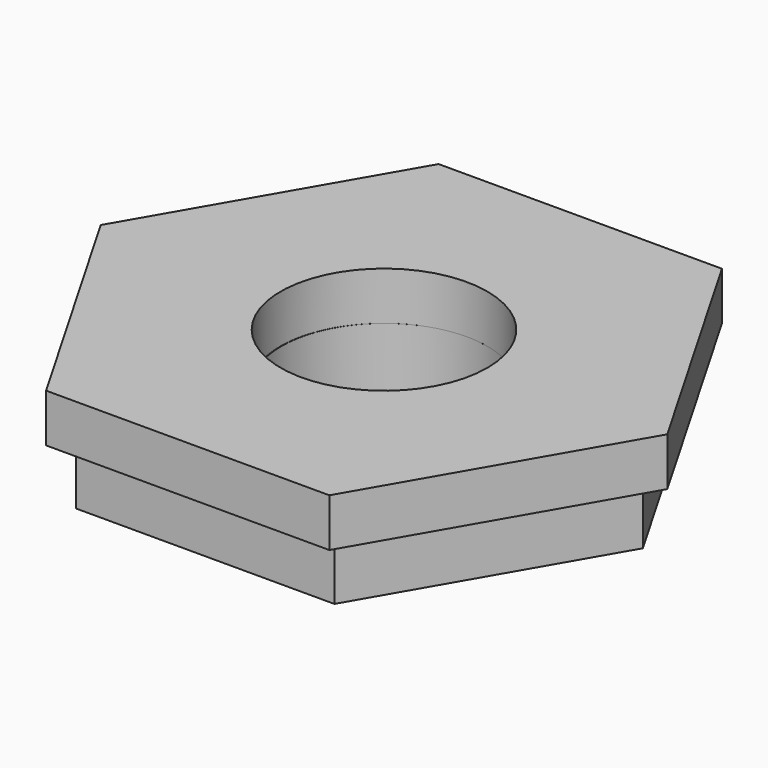
from build123d import *

# Parameters (mm, degrees)
SKETCH001_R  = 8.55
PAD001_DEPTH = 5
SKETCH002_R  = 8.574514
PAD_DEPTH    = 4


with BuildPart() as part:
    # Sketch001 → Pad001 (new body)
    with BuildSketch(Plane.XY):
        Polygon((21.45, -48.595033), (10.725, -30.018788), (-10.725, -30.018788), (-21.45, -48.595033), (-10.725, -67.171278), (10.725, -67.171278), align=None)
        with Locations((0, -48.595033)):
            Circle(SKETCH001_R, mode=Mode.SUBTRACT)
    extrude(amount=PAD001_DEPTH)

    # Sketch002 → Pad (join)
    with BuildSketch(Plane.XY.offset(5)):
        Polygon((23.5, -48.619546), (11.75, -28.267949), (-11.75, -28.267949), (-23.5, -48.619546), (-11.75, -68.971143), (11.75, -68.971143), align=None)
        with Locations((0, -48.619546)):
            Circle(SKETCH002_R, mode=Mode.SUBTRACT)
    extrude(amount=PAD_DEPTH)


solid = part.part
